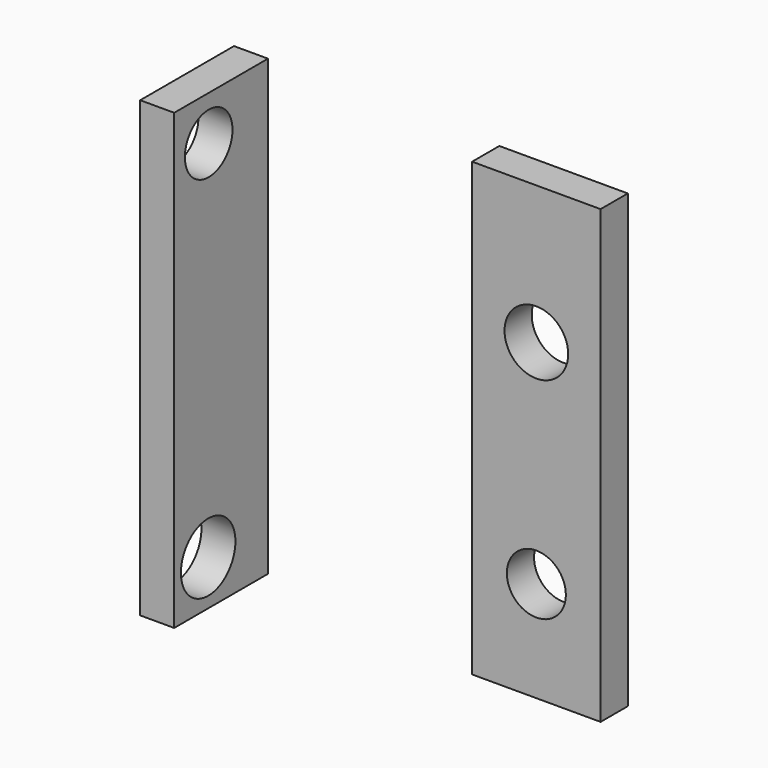
from build123d import *

# Parameters (mm, degrees)
F0_W     = 23.994305
F0_H     = 84.306113
F0_R     = 5.511286
F0_R_2   = 5.943577
F1_DEPTH = 6.35
F2_W     = 21.894712
F2_H     = 84.701095
F2_R     = 6.362352
F2_R_2   = 5.55462
F3_DEPTH = 6.35


with BuildPart() as f1:
    # F0 (on Front) → F1 (new body)
    with BuildSketch(Plane.XZ):
        with Locations((61.546233, -49.439046)):
            Rectangle(F0_W, F0_H)
        with Locations((61.546233, -72.824255)):
            Circle(F0_R, mode=Mode.SUBTRACT)
        with Locations((61.546233, -33.100586)):
            Circle(F0_R_2, mode=Mode.SUBTRACT)
    extrude(amount=F1_DEPTH)


with BuildPart() as f3:
    # F2 (on Right) → F3 (new body)
    with BuildSketch(Plane.YZ):
        with Locations((-10.947356, -49.328639)):
            Rectangle(F2_W, F2_H)
        with Locations((-13.965305, -83.253324)):
            Circle(F2_R, mode=Mode.SUBTRACT)
        with Locations((-13.846637, -15.288506)):
            Circle(F2_R_2, mode=Mode.SUBTRACT)
    extrude(amount=F3_DEPTH)


solid = Compound([f1.part, f3.part])
